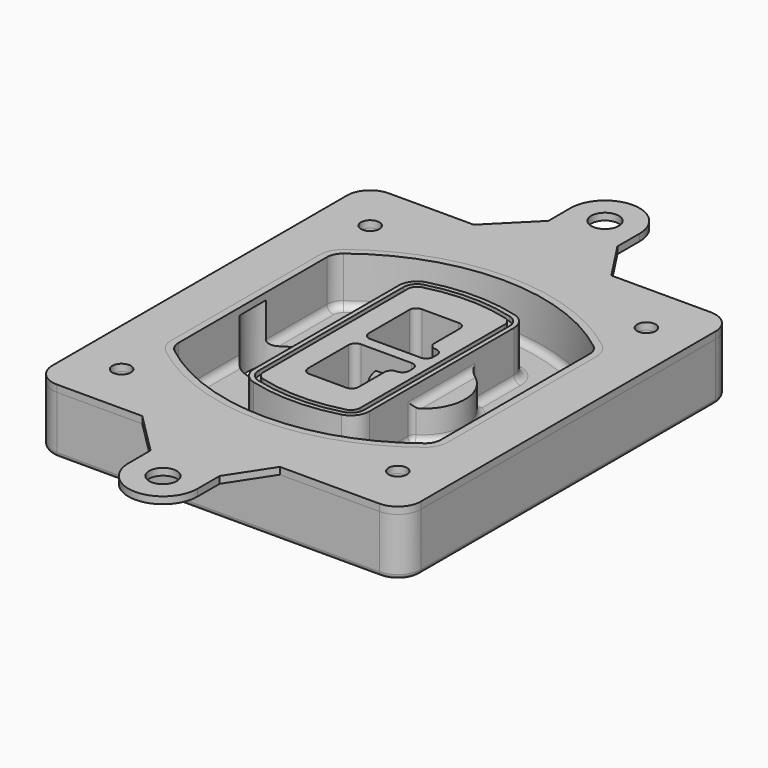
from build123d import *

# Parameters (mm, degrees)
F0_R      = 4
F1_DEPTH  = 25
F2_DEPTH  = 3
F3_DEPTH  = 18
F5_DEPTH  = 21
F6_DEPTH  = 2
F8_DEPTH  = 20
F9_DEPTH  = 16
F10_DEPTH = 25
F7_R      = 6
F7_R_2    = 4
F11_DEPTH = 6
F13_DEPTH = 9
F14_R     = 3
F15_R     = 2
F16_R     = 6
F16_R_2   = 4
F17_DEPTH = 3


with BuildPart() as f1:
    # F0 (on Top) → F1 (new body)
    with BuildSketch(Plane.XY):
        with BuildLine():
            ThreePointArc((-80, -80), (-77.0710678119, -87.0710678119), (-70, -90))
            Line((-70, -90), (70, -90))
            ThreePointArc((70, -90), (77.0710678119, -87.0710678119), (80, -80))
            Line((80, -80), (80, 80))
            ThreePointArc((80, 80), (77.0710678119, 87.0710678119), (70, 90))
            Line((70, 90), (-70, 90))
            ThreePointArc((-70, 90), (-77.0710678119, 87.0710678119), (-80, 80))
            Line((-80, 80), (-80, -80))
        make_face()
        with Locations((-60, -67.5)):
            Circle(F0_R, mode=Mode.SUBTRACT)
        with Locations((60, -67.5)):
            Circle(F0_R, mode=Mode.SUBTRACT)
        with Locations((-60, 67.5)):
            Circle(F0_R, mode=Mode.SUBTRACT)
        with BuildLine():
            ThreePointArc((-64, 40.2934422872), (-62.5820384798, 46.4328484224), (-58.6153846154, 51.3286200352))
            ThreePointArc((-58.6153846154, 51.3286200352), (0, 71.5), (58.6153846154, 51.3286200352))
            ThreePointArc((58.6153846154, 51.3286200352), (62.5820384798, 46.4328484224), (64, 40.2934422872))
            Line((64, 40.2934422872), (64, -40.2934422872))
            ThreePointArc((64, -40.2934422872), (62.5820384798, -46.4328484224), (58.6153846154, -51.3286200352))
            ThreePointArc((58.6153846154, -51.3286200352), (0, -71.5), (-58.6153846154, -51.3286200352))
            ThreePointArc((-58.6153846154, -51.3286200352), (-62.5820384798, -46.4328484224), (-64, -40.2934422872))
            Line((-64, -40.2934422872), (-64, 40.2934422872))
        make_face(mode=Mode.SUBTRACT)
        with Locations((60, 67.5)):
            Circle(F0_R, mode=Mode.SUBTRACT)
        with BuildLine():
            ThreePointArc((58.6153846154, 51.3286200352), (0, 71.5), (-58.6153846154, 51.3286200352))
            ThreePointArc((-58.6153846154, 51.3286200352), (-62.5820384798, 46.4328484224), (-64, 40.2934422872))
            Line((-64, 40.2934422872), (-64, -40.2934422872))
            ThreePointArc((-64, -40.2934422872), (-62.5820384798, -46.4328484224), (-58.6153846154, -51.3286200352))
            ThreePointArc((-58.6153846154, -51.3286200352), (0, -71.5), (58.6153846154, -51.3286200352))
            ThreePointArc((58.6153846154, -51.3286200352), (62.5820384798, -46.4328484224), (64, -40.2934422872))
            Line((64, -40.2934422872), (64, 40.2934422872))
            ThreePointArc((64, 40.2934422872), (62.5820384798, 46.4328484224), (58.6153846154, 51.3286200352))
        make_face()
        with BuildLine():
            Line((-60, -40.2934422872), (-60, 40.2934422872))
            ThreePointArc((-60, 40.2934422872), (-58.9871703427, 44.6787323838), (-56.1538461538, 48.1757121072))
            ThreePointArc((-56.1538461538, 48.1757121072), (0, 67.5), (56.1538461538, 48.1757121072))
            ThreePointArc((56.1538461538, 48.1757121072), (58.9871703427, 44.6787323838), (60, 40.2934422872))
            Line((60, 40.2934422872), (60, -40.2934422872))
            ThreePointArc((60, -40.2934422872), (58.9871703427, -44.6787323838), (56.1538461538, -48.1757121072))
            ThreePointArc((56.1538461538, -48.1757121072), (0, -67.5), (-56.1538461538, -48.1757121072))
            ThreePointArc((-56.1538461538, -48.1757121072), (-58.9871703427, -44.6787323838), (-60, -40.2934422872))
        make_face(mode=Mode.SUBTRACT)
        with BuildLine():
            ThreePointArc((-56.1538461538, 48.1757121072), (-58.9871703427, 44.6787323838), (-60, 40.2934422872))
            Line((-60, 40.2934422872), (-60, -40.2934422872))
            ThreePointArc((-60, -40.2934422872), (-58.9871703427, -44.6787323838), (-56.1538461538, -48.1757121072))
            ThreePointArc((-56.1538461538, -48.1757121072), (0, -67.5), (56.1538461538, -48.1757121072))
            ThreePointArc((56.1538461538, -48.1757121072), (58.9871703427, -44.6787323838), (60, -40.2934422872))
            Line((60, -40.2934422872), (60, 40.2934422872))
            ThreePointArc((60, 40.2934422872), (58.9871703427, 44.6787323838), (56.1538461538, 48.1757121072))
            ThreePointArc((56.1538461538, 48.1757121072), (0, 67.5), (-56.1538461538, 48.1757121072))
        make_face()
        with BuildLine():
            ThreePointArc((54.3076923077, 45.8110311612), (56.2910192399, 43.3631453548), (57, 40.2934422872))
            Line((57, 40.2934422872), (57, -40.2934422872))
            ThreePointArc((57, -40.2934422872), (56.2910192399, -43.3631453548), (54.3076923077, -45.8110311612))
            ThreePointArc((54.3076923077, -45.8110311612), (0, -64.5), (-54.3076923077, -45.8110311612))
            ThreePointArc((-54.3076923077, -45.8110311612), (-56.2910192399, -43.3631453548), (-57, -40.2934422872))
            Line((-57, -40.2934422872), (-57, 40.2934422872))
            ThreePointArc((-57, 40.2934422872), (-56.2910192399, 43.3631453548), (-54.3076923077, 45.8110311612))
            ThreePointArc((-54.3076923077, 45.8110311612), (0, 64.5), (54.3076923077, 45.8110311612))
        make_face(mode=Mode.SUBTRACT)
        with BuildLine():
            Line((57, -40.2934422872), (57, 40.2934422872))
            ThreePointArc((57, 40.2934422872), (56.2910192399, 43.3631453548), (54.3076923077, 45.8110311612))
            ThreePointArc((54.3076923077, 45.8110311612), (0, 64.5), (-54.3076923077, 45.8110311612))
            ThreePointArc((-54.3076923077, 45.8110311612), (-56.2910192399, 43.3631453548), (-57, 40.2934422872))
            Line((-57, 40.2934422872), (-57, -40.2934422872))
            ThreePointArc((-57, -40.2934422872), (-56.2910192399, -43.3631453548), (-54.3076923077, -45.8110311612))
            ThreePointArc((-54.3076923077, -45.8110311612), (0, -64.5), (54.3076923077, -45.8110311612))
            ThreePointArc((54.3076923077, -45.8110311612), (56.2910192399, -43.3631453548), (57, -40.2934422872))
        make_face()
    extrude(amount=-F1_DEPTH)

    # F0 (on Top) → F2 (join)
    with BuildSketch(Plane.XY):
        with BuildLine():
            ThreePointArc((-56.1538461538, 48.1757121072), (-58.9871703427, 44.6787323838), (-60, 40.2934422872))
            Line((-60, 40.2934422872), (-60, -40.2934422872))
            ThreePointArc((-60, -40.2934422872), (-58.9871703427, -44.6787323838), (-56.1538461538, -48.1757121072))
            ThreePointArc((-56.1538461538, -48.1757121072), (0, -67.5), (56.1538461538, -48.1757121072))
            ThreePointArc((56.1538461538, -48.1757121072), (58.9871703427, -44.6787323838), (60, -40.2934422872))
            Line((60, -40.2934422872), (60, 40.2934422872))
            ThreePointArc((60, 40.2934422872), (58.9871703427, 44.6787323838), (56.1538461538, 48.1757121072))
            ThreePointArc((56.1538461538, 48.1757121072), (0, 67.5), (-56.1538461538, 48.1757121072))
        make_face()
        with BuildLine():
            ThreePointArc((54.3076923077, 45.8110311612), (56.2910192399, 43.3631453548), (57, 40.2934422872))
            Line((57, 40.2934422872), (57, -40.2934422872))
            ThreePointArc((57, -40.2934422872), (56.2910192399, -43.3631453548), (54.3076923077, -45.8110311612))
            ThreePointArc((54.3076923077, -45.8110311612), (0, -64.5), (-54.3076923077, -45.8110311612))
            ThreePointArc((-54.3076923077, -45.8110311612), (-56.2910192399, -43.3631453548), (-57, -40.2934422872))
            Line((-57, -40.2934422872), (-57, 40.2934422872))
            ThreePointArc((-57, 40.2934422872), (-56.2910192399, 43.3631453548), (-54.3076923077, 45.8110311612))
            ThreePointArc((-54.3076923077, 45.8110311612), (0, 64.5), (54.3076923077, 45.8110311612))
        make_face(mode=Mode.SUBTRACT)
    extrude(amount=F2_DEPTH)

    # F0 (on Top) → F3 (cut)
    with BuildSketch(Plane.XY):
        with BuildLine():
            Line((57, -40.2934422872), (57, 40.2934422872))
            ThreePointArc((57, 40.2934422872), (56.2910192399, 43.3631453548), (54.3076923077, 45.8110311612))
            ThreePointArc((54.3076923077, 45.8110311612), (0, 64.5), (-54.3076923077, 45.8110311612))
            ThreePointArc((-54.3076923077, 45.8110311612), (-56.2910192399, 43.3631453548), (-57, 40.2934422872))
            Line((-57, 40.2934422872), (-57, -40.2934422872))
            ThreePointArc((-57, -40.2934422872), (-56.2910192399, -43.3631453548), (-54.3076923077, -45.8110311612))
            ThreePointArc((-54.3076923077, -45.8110311612), (0, -64.5), (54.3076923077, -45.8110311612))
            ThreePointArc((54.3076923077, -45.8110311612), (56.2910192399, -43.3631453548), (57, -40.2934422872))
        make_face()
    extrude(amount=-F3_DEPTH, mode=Mode.SUBTRACT)

    # F4 (on face) → F5 (join, through all)
    with BuildSketch(Plane.XY.offset(3)):
        with BuildLine():
            ThreePointArc((-25, -39.2465276821), (-23.3511545998, -44.1109737193), (-19.0842911877, -46.9702398883))
            ThreePointArc((-19.0842911877, -46.9702398883), (0, -49.5), (19.0842911877, -46.9702398883))
            ThreePointArc((19.0842911877, -46.9702398883), (23.3511545998, -44.1109737193), (25, -39.2465276821))
            Line((25, -39.2465276821), (25, 39.2465276821))
            ThreePointArc((25, 39.2465276821), (23.3511545998, 44.1109737193), (19.0842911877, 46.9702398883))
            ThreePointArc((19.0842911877, 46.9702398883), (0, 49.5), (-19.0842911877, 46.9702398883))
            ThreePointArc((-19.0842911877, 46.9702398883), (-23.3511545998, 44.1109737193), (-25, 39.2465276821))
            Line((-25, 39.2465276821), (-25, -39.2465276821))
        make_face()
        with BuildLine():
            ThreePointArc((18.5632183908, 45.0393118368), (21.7633659499, 42.89486221), (23, 39.2465276821))
            Line((23, 39.2465276821), (23, -39.2465276821))
            ThreePointArc((23, -39.2465276821), (21.7633659499, -42.89486221), (18.5632183908, -45.0393118368))
            ThreePointArc((18.5632183908, -45.0393118368), (0, -47.5), (-18.5632183908, -45.0393118368))
            ThreePointArc((-18.5632183908, -45.0393118368), (-21.7633659499, -42.89486221), (-23, -39.2465276821))
            Line((-23, -39.2465276821), (-23, 39.2465276821))
            ThreePointArc((-23, 39.2465276821), (-21.7633659499, 42.89486221), (-18.5632183908, 45.0393118368))
            ThreePointArc((-18.5632183908, 45.0393118368), (0, 47.5), (18.5632183908, 45.0393118368))
        make_face(mode=Mode.SUBTRACT)
        with BuildLine():
            Line((23, -39.2465276821), (23, 39.2465276821))
            ThreePointArc((23, 39.2465276821), (21.7633659499, 42.89486221), (18.5632183908, 45.0393118368))
            ThreePointArc((18.5632183908, 45.0393118368), (0, 47.5), (-18.5632183908, 45.0393118368))
            ThreePointArc((-18.5632183908, 45.0393118368), (-21.7633659499, 42.89486221), (-23, 39.2465276821))
            Line((-23, 39.2465276821), (-23, -39.2465276821))
            ThreePointArc((-23, -39.2465276821), (-21.7633659499, -42.89486221), (-18.5632183908, -45.0393118368))
            ThreePointArc((-18.5632183908, -45.0393118368), (0, -47.5), (18.5632183908, -45.0393118368))
            ThreePointArc((18.5632183908, -45.0393118368), (21.7633659499, -42.89486221), (23, -39.2465276821))
        make_face()
        with BuildLine():
            ThreePointArc((18.0421455939, 43.1083837852), (20.1755772999, 41.6787507007), (21, 39.2465276821))
            Line((21, 39.2465276821), (21, -39.2465276821))
            ThreePointArc((21, -39.2465276821), (20.1755772999, -41.6787507007), (18.0421455939, -43.1083837852))
            ThreePointArc((18.0421455939, -43.1083837852), (0, -45.5), (-18.0421455939, -43.1083837852))
            ThreePointArc((-18.0421455939, -43.1083837852), (-20.1755772999, -41.6787507007), (-21, -39.2465276821))
            Line((-21, -39.2465276821), (-21, 39.2465276821))
            ThreePointArc((-21, 39.2465276821), (-20.1755772999, 41.6787507007), (-18.0421455939, 43.1083837852))
            ThreePointArc((-18.0421455939, 43.1083837852), (0, 45.5), (18.0421455939, 43.1083837852))
        make_face(mode=Mode.SUBTRACT)
        with BuildLine():
            Line((21, -39.2465276821), (21, 39.2465276821))
            ThreePointArc((21, 39.2465276821), (20.1755772999, 41.6787507007), (18.0421455939, 43.1083837852))
            ThreePointArc((18.0421455939, 43.1083837852), (0, 45.5), (-18.0421455939, 43.1083837852))
            ThreePointArc((-18.0421455939, 43.1083837852), (-20.1755772999, 41.6787507007), (-21, 39.2465276821))
            Line((-21, 39.2465276821), (-21, -39.2465276821))
            ThreePointArc((-21, -39.2465276821), (-20.1755772999, -41.6787507007), (-18.0421455939, -43.1083837852))
            ThreePointArc((-18.0421455939, -43.1083837852), (0, -45.5), (18.0421455939, -43.1083837852))
            ThreePointArc((18.0421455939, -43.1083837852), (20.1755772999, -41.6787507007), (21, -39.2465276821))
        make_face()
        with BuildLine():
            Line((-8, -2.5), (14, -2.5))
            ThreePointArc((14, -2.5), (16.1213203436, -3.3786796564), (17, -5.5))
            Line((17, -5.5), (17, -7.5))
            ThreePointArc((17, -7.5), (16.1213203436, -9.6213203436), (14, -10.5))
            ThreePointArc((14, -10.5), (11.8786796564, -11.3786796564), (11, -13.5))
            Line((11, -13.5), (11, -27.5))
            ThreePointArc((11, -27.5), (10.1213203436, -29.6213203436), (8, -30.5))
            Line((8, -30.5), (-8, -30.5))
            ThreePointArc((-8, -30.5), (-10.1213203436, -29.6213203436), (-11, -27.5))
            Line((-11, -27.5), (-11, -5.5))
            ThreePointArc((-11, -5.5), (-10.1213203436, -3.3786796564), (-8, -2.5))
        make_face(mode=Mode.SUBTRACT)
        with BuildLine():
            ThreePointArc((-8, 2.5), (-10.1213203436, 3.3786796564), (-11, 5.5))
            Line((-11, 5.5), (-11, 27.5))
            ThreePointArc((-11, 27.5), (-10.1213203436, 29.6213203436), (-8, 30.5))
            Line((-8, 30.5), (8, 30.5))
            ThreePointArc((8, 30.5), (10.1213203436, 29.6213203436), (11, 27.5))
            Line((11, 27.5), (11, 13.5))
            ThreePointArc((11, 13.5), (11.8786796564, 11.3786796564), (14, 10.5))
            ThreePointArc((14, 10.5), (16.1213203436, 9.6213203436), (17, 7.5))
            Line((17, 7.5), (17, 5.5))
            ThreePointArc((17, 5.5), (16.1213203436, 3.3786796564), (14, 2.5))
            Line((14, 2.5), (-8, 2.5))
        make_face(mode=Mode.SUBTRACT)
    extrude(amount=-F5_DEPTH)

    # F4 (on face) → F6 (cut)
    with BuildSketch(Plane.XY.offset(3)):
        with BuildLine():
            Line((23, -39.2465276821), (23, 39.2465276821))
            ThreePointArc((23, 39.2465276821), (21.7633659499, 42.89486221), (18.5632183908, 45.0393118368))
            ThreePointArc((18.5632183908, 45.0393118368), (0, 47.5), (-18.5632183908, 45.0393118368))
            ThreePointArc((-18.5632183908, 45.0393118368), (-21.7633659499, 42.89486221), (-23, 39.2465276821))
            Line((-23, 39.2465276821), (-23, -39.2465276821))
            ThreePointArc((-23, -39.2465276821), (-21.7633659499, -42.89486221), (-18.5632183908, -45.0393118368))
            ThreePointArc((-18.5632183908, -45.0393118368), (0, -47.5), (18.5632183908, -45.0393118368))
            ThreePointArc((18.5632183908, -45.0393118368), (21.7633659499, -42.89486221), (23, -39.2465276821))
        make_face()
        with BuildLine():
            ThreePointArc((18.0421455939, 43.1083837852), (20.1755772999, 41.6787507007), (21, 39.2465276821))
            Line((21, 39.2465276821), (21, -39.2465276821))
            ThreePointArc((21, -39.2465276821), (20.1755772999, -41.6787507007), (18.0421455939, -43.1083837852))
            ThreePointArc((18.0421455939, -43.1083837852), (0, -45.5), (-18.0421455939, -43.1083837852))
            ThreePointArc((-18.0421455939, -43.1083837852), (-20.1755772999, -41.6787507007), (-21, -39.2465276821))
            Line((-21, -39.2465276821), (-21, 39.2465276821))
            ThreePointArc((-21, 39.2465276821), (-20.1755772999, 41.6787507007), (-18.0421455939, 43.1083837852))
            ThreePointArc((-18.0421455939, 43.1083837852), (0, 45.5), (18.0421455939, 43.1083837852))
        make_face(mode=Mode.SUBTRACT)
    extrude(amount=-F6_DEPTH, mode=Mode.SUBTRACT)

    # F7 (on face) → F8 (join)
    with BuildSketch(Plane(origin=(0, 0, -25), x_dir=(1, 0, 0), z_dir=(0, 0, -1))):
        with BuildLine():
            ThreePointArc((3.28842436, 0), (16.7567035675, 13.4682792075), (30.224982775, 0))
            Line((30.224982775, 0), (35.224982775, 0))
            ThreePointArc((35.224982775, 0), (16.7567035675, 18.4682792075), (-1.71157564, 0))
            Line((-1.71157564, 0), (3.28842436, 0))
        make_face()
        with BuildLine():
            Line((3.28842436, 0), (30.224982775, 0))
            ThreePointArc((30.224982775, 0), (16.7567035675, 13.4682792075), (3.28842436, 0))
        make_face()
        with BuildLine():
            ThreePointArc((3.28842436, 0), (16.7567035675, -13.4682792075), (30.224982775, 0))
            Line((30.224982775, 0), (3.28842436, 0))
        make_face()
        with BuildLine():
            Line((35.224982775, 0), (30.224982775, 0))
            ThreePointArc((30.224982775, 0), (16.7567035675, -13.4682792075), (3.28842436, 0))
            Line((3.28842436, 0), (-1.71157564, 0))
            ThreePointArc((-1.71157564, 0), (16.7567035675, -18.4682792075), (35.224982775, 0))
        make_face()
    extrude(amount=-F8_DEPTH)

    # F7 (on face) → F9 (cut)
    with BuildSketch(Plane(origin=(0, 0, -25), x_dir=(1, 0, 0), z_dir=(0, 0, -1))):
        with BuildLine():
            Line((3.28842436, 0), (30.224982775, 0))
            ThreePointArc((30.224982775, 0), (16.7567035675, 13.4682792075), (3.28842436, 0))
        make_face()
        with BuildLine():
            ThreePointArc((3.28842436, 0), (16.7567035675, -13.4682792075), (30.224982775, 0))
            Line((30.224982775, 0), (3.28842436, 0))
        make_face()
    extrude(amount=-F9_DEPTH, mode=Mode.SUBTRACT)

    # F7 (on face) → F10 (cut)
    with BuildSketch(Plane(origin=(0, 0, -25), x_dir=(1, 0, 0), z_dir=(0, 0, -1))):
        with BuildLine():
            Line((-59.0318229325, 0), (-32.0952645175, 0))
            ThreePointArc((-32.0952645175, 0), (-45.563543725, 13.4682792075), (-59.0318229325, 0))
        make_face()
        with BuildLine():
            ThreePointArc((-59.0318229325, 0), (-45.563543725, -13.4682792075), (-32.0952645175, 0))
            Line((-32.0952645175, 0), (-59.0318229325, 0))
        make_face()
    extrude(amount=-F10_DEPTH, mode=Mode.SUBTRACT)

    # F7 (on face) → F11 (cut)
    with BuildSketch(Plane(origin=(0, 0, -25), x_dir=(1, 0, 0), z_dir=(0, 0, -1))):
        with Locations((60, -67.5)):
            Circle(F7_R)
        with Locations((60, -67.5)):
            Circle(F7_R_2, mode=Mode.SUBTRACT)
        with Locations((60, -67.5)):
            Circle(F7_R)
        with Locations((60, -67.5)):
            Circle(F7_R_2, mode=Mode.SUBTRACT)
        with Locations((-60, -67.5)):
            Circle(F7_R)
        with Locations((-60, -67.5)):
            Circle(F7_R_2, mode=Mode.SUBTRACT)
        with Locations((-60, -67.5)):
            Circle(F7_R)
        with Locations((-60, -67.5)):
            Circle(F7_R_2, mode=Mode.SUBTRACT)
        with Locations((-60, 67.5)):
            Circle(F7_R)
        with Locations((-60, 67.5)):
            Circle(F7_R_2, mode=Mode.SUBTRACT)
        with Locations((-60, 67.5)):
            Circle(F7_R)
        with Locations((-60, 67.5)):
            Circle(F7_R_2, mode=Mode.SUBTRACT)
        with Locations((60, 67.5)):
            Circle(F7_R)
        with Locations((60, 67.5)):
            Circle(F7_R_2, mode=Mode.SUBTRACT)
        with Locations((60, 67.5)):
            Circle(F7_R)
        with Locations((60, 67.5)):
            Circle(F7_R_2, mode=Mode.SUBTRACT)
    extrude(amount=-F11_DEPTH, mode=Mode.SUBTRACT)

    # F12 (on face) → F13 (cut, through all)
    with BuildSketch(Plane(origin=(0, 0, -9), x_dir=(1, 0, 0), z_dir=(0, 0, -1))):
        with BuildLine():
            Line((11, 13.5), (11, 17.5481537753))
            ThreePointArc((11, 17.5481537753), (2.5696536419, 11.8239143813), (-1.5415842455, 2.5))
            Line((-1.5415842455, 2.5), (3.5224848595, 2.5))
            ThreePointArc((3.5224848595, 2.5), (6.1857188154, 8.3455872281), (11.2536447004, 12.2927168648))
            ThreePointArc((11.2536447004, 12.2927168648), (11.0640958889, 12.8831798879), (11, 13.5))
        make_face()
        with BuildLine():
            ThreePointArc((11.2536447004, -12.2927168648), (6.1857188154, -8.3455872281), (3.5224848595, -2.5))
            Line((3.5224848595, -2.5), (-1.5415842455, -2.5))
            ThreePointArc((-1.5415842455, -2.5), (2.5696536419, -11.8239143813), (11, -17.5481537753))
            Line((11, -17.5481537753), (11, -13.5))
            ThreePointArc((11, -13.5), (11.0640958889, -12.8831798879), (11.2536447004, -12.2927168648))
        make_face()
        with BuildLine():
            ThreePointArc((11.2536447004, 12.2927168648), (6.1857188154, 8.3455872281), (3.5224848595, 2.5))
            Line((3.5224848595, 2.5), (14, 2.5))
            ThreePointArc((14, 2.5), (16.1213203436, 3.3786796564), (17, 5.5))
            Line((17, 5.5), (17, 7.5))
            ThreePointArc((17, 7.5), (16.1213203436, 9.6213203436), (14, 10.5))
            ThreePointArc((14, 10.5), (12.3601599782, 10.9878446101), (11.2536447004, 12.2927168648))
        make_face()
        with BuildLine():
            Line((14, -2.5), (3.5224848595, -2.5))
            ThreePointArc((3.5224848595, -2.5), (6.1857188154, -8.3455872281), (11.2536447004, -12.2927168648))
            ThreePointArc((11.2536447004, -12.2927168648), (12.3601599782, -10.9878446101), (14, -10.5))
            ThreePointArc((14, -10.5), (16.1213203436, -9.6213203436), (17, -7.5))
            Line((17, -7.5), (17, -5.5))
            ThreePointArc((17, -5.5), (16.1213203436, -3.3786796564), (14, -2.5))
        make_face()
    extrude(amount=F13_DEPTH, mode=Mode.SUBTRACT)

    # F14
    f14_edges = [f1.edges().sort_by_distance(p)[0] for p in [
        (-57, -23.703476, -18),
        (-57, 23.703476, -18),
        (25, 0, -5),
        (25, 16.526506, -11.5),
        (25, -16.526506, -11.5),
        (25, -27.886517, -18),
        (35.224983, 0, -18),
    ]]
    fillet(f14_edges, radius=F14_R)

    # F15
    f15_edges = [f1.edges().sort_by_distance(p)[0] for p in [
        (0, -90, -25),
    ]]
    fillet(f15_edges, radius=F15_R)


with BuildPart() as f17:
    # F16 (on face) → F17 (new body, through all)
    with BuildSketch(Plane.XY):
        with BuildLine():
            Line((-15, 108), (-33, 90))
            Line((-33, 90), (26.7517124091, 90))
            Line((26.7517124091, 90), (15, 108))
            Line((15, 108), (15, 120))
            ThreePointArc((15, 120), (0, 135), (-15, 120))
            Line((-15, 120), (-15, 108))
        make_face()
        with Locations((0, 120)):
            Circle(F16_R, mode=Mode.SUBTRACT)
        with BuildLine():
            Line((-33, 90), (-70, 90))
            ThreePointArc((-70, 90), (-77.0710678119, 87.0710678119), (-80, 80))
            Line((-80, 80), (-80, -80))
            ThreePointArc((-80, -80), (-77.0710678119, -87.0710678119), (-70, -90))
            Line((-70, -90), (-33, -90))
            Line((-33, -90), (26.7517124091, -90))
            Line((26.7517124091, -90), (70, -90))
            ThreePointArc((70, -90), (77.0710678119, -87.0710678119), (80, -80))
            Line((80, -80), (80, 80))
            ThreePointArc((80, 80), (77.0710678119, 87.0710678119), (70, 90))
            Line((70, 90), (26.7517124091, 90))
            Line((26.7517124091, 90), (-33, 90))
        make_face()
        with Locations((-60, -67.5)):
            Circle(F16_R_2, mode=Mode.SUBTRACT)
        with Locations((60, -67.5)):
            Circle(F16_R_2, mode=Mode.SUBTRACT)
        with Locations((-60, 67.5)):
            Circle(F16_R_2, mode=Mode.SUBTRACT)
        with BuildLine():
            ThreePointArc((-56.1538461538, 48.1757121072), (0, 67.5), (56.1538461538, 48.1757121072))
            ThreePointArc((56.1538461538, 48.1757121072), (58.9871703427, 44.6787323838), (60, 40.2934422872))
            Line((60, 40.2934422872), (60, -40.2934422872))
            ThreePointArc((60, -40.2934422872), (58.9871703427, -44.6787323838), (56.1538461538, -48.1757121072))
            ThreePointArc((56.1538461538, -48.1757121072), (0, -67.5), (-56.1538461538, -48.1757121072))
            ThreePointArc((-56.1538461538, -48.1757121072), (-58.9871703427, -44.6787323838), (-60, -40.2934422872))
            Line((-60, -40.2934422872), (-60, 40.2934422872))
            ThreePointArc((-60, 40.2934422872), (-58.9871703427, 44.6787323838), (-56.1538461538, 48.1757121072))
        make_face(mode=Mode.SUBTRACT)
        with Locations((60, 67.5)):
            Circle(F16_R_2, mode=Mode.SUBTRACT)
        with BuildLine():
            Line((26.7517124091, -90), (-33, -90))
            Line((-33, -90), (-15, -108))
            Line((-15, -108), (-15, -120))
            ThreePointArc((-15, -120), (0, -135), (15, -120))
            Line((15, -120), (15, -108))
            Line((15, -108), (26.7517124091, -90))
        make_face()
        with Locations((0, -120)):
            Circle(F16_R, mode=Mode.SUBTRACT)
    extrude(amount=F17_DEPTH)


solid = Compound([f1.part, f17.part])
